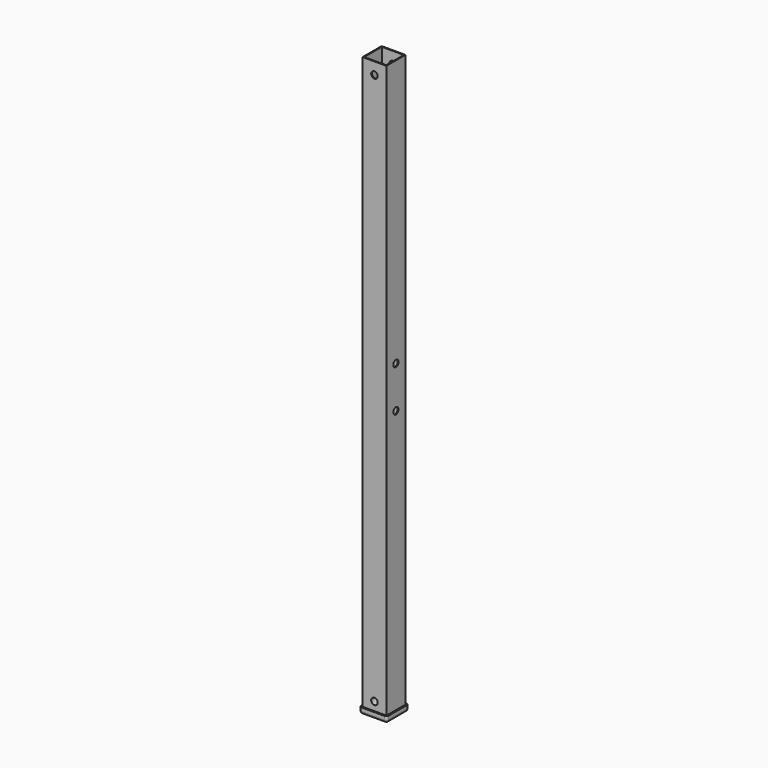
from build123d import *

# Parameters (mm, degrees)
F0_W      = 20
F0_H      = 20
F1_DEPTH  = 483
F2_W      = 18.5
F2_H      = 18.5
F3_DEPTH  = 483.001
F4_R      = 2.75
F5_DEPTH  = 25
F7_W      = 23
F7_H      = 23
F8_DEPTH  = 5
F9_W      = 20.5
F9_H      = 20.5
F10_DEPTH = 3
F11_W     = 18
F11_H     = 18
F12_DEPTH = 15
F14_DEPTH = 20.501
F15_R     = 2
F16_R     = 2.75
F17_DEPTH = 5


with BuildPart() as f1:
    # F0 (on Top) → F1 (new body)
    with BuildSketch(Plane.XY):
        Rectangle(F0_W, F0_H)
    extrude(amount=F1_DEPTH)

    # F2 (on face) → F3 (cut, through all)
    with BuildSketch(Plane.XY.offset(483)):
        Rectangle(F2_W, F2_H)
    extrude(amount=-F3_DEPTH, mode=Mode.SUBTRACT)

    # F4 (on face) → F5 (cut)
    with BuildSketch(Plane(origin=(0, 10, 0), x_dir=(-1, 0, 0), z_dir=(0, 1, 0))):
        with Locations((0, 473)):
            Circle(F4_R)
        with Locations((0, 10)):
            Circle(F4_R)
    extrude(amount=-F5_DEPTH, mode=Mode.SUBTRACT)

    # F16 (on face) → F17 (cut)
    with BuildSketch(Plane.YZ.offset(10)):
        with Locations((0, 224)):
            Circle(F16_R)
        with Locations((0, 259)):
            Circle(F16_R)
    extrude(amount=-F17_DEPTH, mode=Mode.SUBTRACT)


with BuildPart() as f8:
    # F7 (on offset) → F8 (new body)
    with BuildSketch(Plane.XY.offset(-2)):
        Rectangle(F7_W, F7_H)
    extrude(amount=F8_DEPTH)

    # F9 (on face) → F10 (cut)
    with BuildSketch(Plane.XY.offset(3)):
        Rectangle(F9_W, F9_H)
    extrude(amount=-F10_DEPTH, mode=Mode.SUBTRACT)

    # F11 (on face) → F12 (join)
    with BuildSketch(Plane.XY):
        Rectangle(F11_W, F11_H)
    extrude(amount=F12_DEPTH)

    # F13 (on face) → F14 (cut, through all)
    with BuildSketch(Plane(origin=(0, 9, 0), x_dir=(-1, 0, 0), z_dir=(0, 1, 0))):
        with BuildLine():
            Line((3.25, 15), (-3.25, 15))
            Line((-3.25, 15), (-3.25, 9.75))
            ThreePointArc((-3.25, 9.75), (0, 6.5), (3.25, 9.75))
            Line((3.25, 9.75), (3.25, 15))
        make_face()
    extrude(amount=-F14_DEPTH, mode=Mode.SUBTRACT)

    # F15
    f15_edges = [f8.edges().sort_by_distance(p)[0] for p in [
        (11.5, -11.5, 0.5),
        (-11.5, -11.5, 0.5),
        (11.5, 11.5, 0.5),
        (-11.5, 11.5, 0.5),
        (-11.5, 0, -2),
        (0, -11.5, -2),
        (11.5, 0, -2),
        (0, 11.5, -2),
    ]]
    fillet(f15_edges, radius=F15_R)


solid = Compound([f1.part, f8.part])
